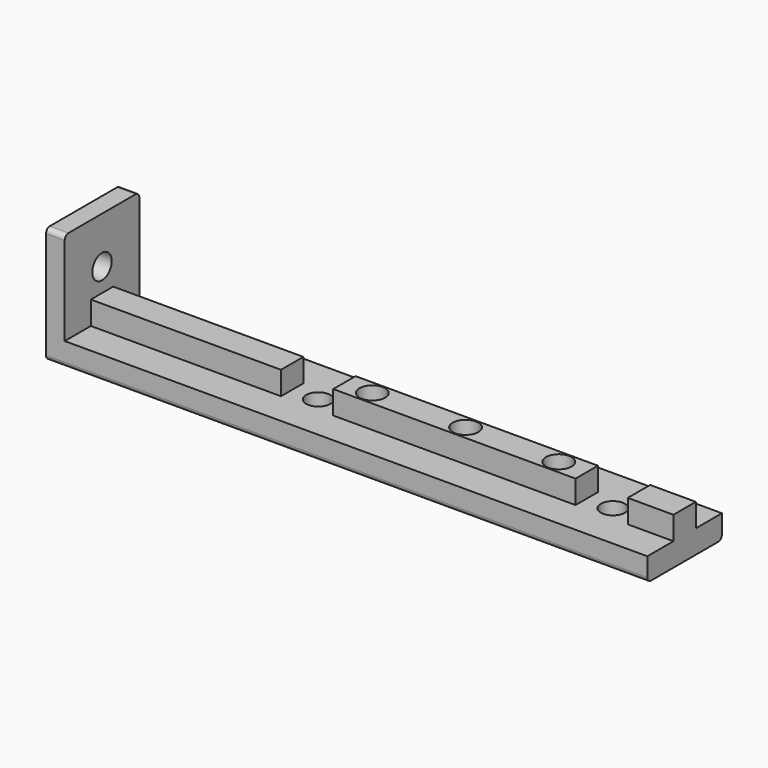
from build123d import *

# Parameters (mm, degrees)
F0_W      = 125
F0_H      = 20
F1_DEPTH  = 5
F2_W      = 125
F2_H      = 6
F3_DEPTH  = 5
F4_R      = 2.75
F5_DEPTH  = 25
F6_W      = 11.2
F6_H      = 6
F7_DEPTH  = 5
F8_R      = 2.6
F9_DEPTH  = 5
F10_R     = 2.6
F11_DEPTH = 4
F12_R     = 1
F13_SIZE2 = 0.5
F13_SIZE  = 0.2886751346


with BuildPart() as f1:
    # F0 (on Top) → F1 (new body)
    with BuildSketch(Plane.XY):
        with Locations((62.5, 0)):
            Rectangle(F0_W, F0_H)
    extrude(amount=F1_DEPTH)

    # F2 (on face) → F3 (join)
    with BuildSketch(Plane.XY.offset(5)):
        with Locations((62.5, 0)):
            Rectangle(F2_W, F2_H)
    extrude(amount=F3_DEPTH)

    # F4 (on face) → F5 (cut)
    with BuildSketch(Plane.XY.offset(10)):
        with Locations((98, 0)):
            Circle(F4_R)
        with Locations((78, 0)):
            Circle(F4_R)
        with Locations((58, 0)):
            Circle(F4_R)
    extrude(amount=-F5_DEPTH, mode=Mode.SUBTRACT)

    # F6 (on face) → F7 (cut, through all)
    with BuildSketch(Plane.XY.offset(10)):
        with Locations((109.6, 0)):
            Rectangle(F6_W, F6_H)
        with Locations((46.4, 0)):
            Rectangle(F6_W, F6_H)
    extrude(amount=-F7_DEPTH, mode=Mode.SUBTRACT)

    # F8 (on face) → F9 (cut, through all)
    with BuildSketch(Plane.XY.offset(5)):
        with Locations((46.4, 0)):
            Circle(F8_R)
        with Locations((109.6, 0)):
            Circle(F8_R)
    extrude(amount=-F9_DEPTH, mode=Mode.SUBTRACT)

    # F10 (on face) → F11 (join)
    with BuildSketch(Plane(origin=(0, 0, 0), x_dir=(0, -1, 0), z_dir=(-1, 0, 0))):
        Polygon((-10, 25), (-10, 5), (-3, 5), (-3, 10), (3, 10), (3, 5), (10, 5), (10, 25), align=None)
        with Locations((0, 15)):
            Circle(F10_R, mode=Mode.SUBTRACT)
        Polygon((-10, 5), (-10, 0), (10, 0), (10, 5), (3, 5), (3, 10), (-3, 10), (-3, 5), align=None)
    extrude(amount=F11_DEPTH)

    # F12
    f12_edges = [f1.edges().sort_by_distance(p)[0] for p in [
        (-2, -10, 25),
        (-2, 10, 25),
        (60.5, -10, 0),
        (60.5, 10, 0),
    ]]
    fillet(f12_edges, radius=F12_R)

    # F13
    f13_edges = [f1.edges().sort_by_distance(p)[0] for p in [
        (55.25, 0, 0),
        (75.25, 0, 0),
        (95.25, 0, 0),
    ]]
    f13_side = f1.faces().sort_by_distance((-2.697502, 0, 0))[0]
    chamfer(f13_edges, length=F13_SIZE, length2=F13_SIZE2, reference=f13_side)


solid = f1.part
